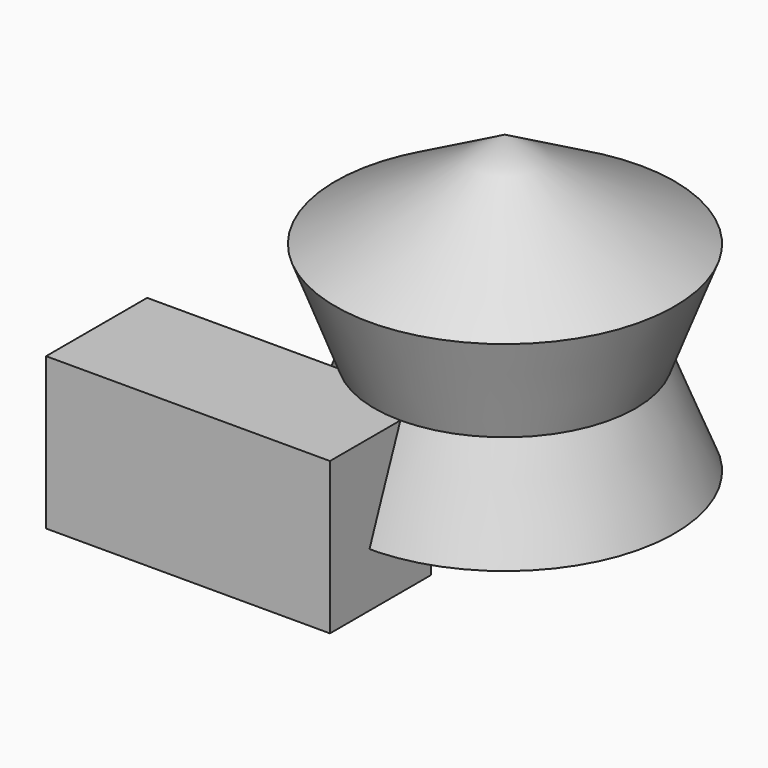
from build123d import *

# Parameters (mm, degrees)
F0_W     = 128.096625
F0_H     = 68.472706
F1_DEPTH = 57


with BuildPart() as f1:
    # F0 (on Front) → F1 (new body)
    with BuildSketch(Plane.XZ):
        with Locations((-64.048312, -34.236353)):
            Rectangle(F0_W, F0_H)
    extrude(amount=F1_DEPTH)


with BuildPart() as f3:
    # F2 (on Right) → F3 (revolve)
    with BuildSketch(Plane.YZ):
        Polygon((118.228109, 46.140071), (41.715678, 89.541227), (41.715678, -44.033214), (118.228109, -44.033214), (100.707546, 0), align=None)
    revolve(axis=Axis((0, 41.715678, 22.754006), (0, 0, -1)))


solid = Compound([f1.part, f3.part])
